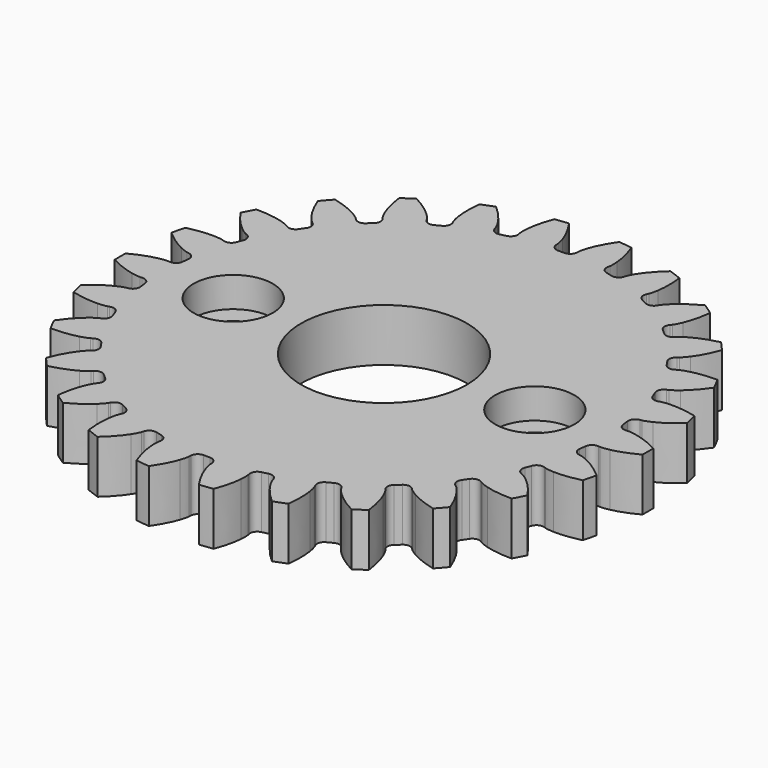
from build123d import *

# Parameters (mm, degrees)
PAD_DEPTH       = 7
SKETCH_R        = 11
POCKET_DEPTH    = 7
SKETCH001_R     = 5.25
POCKET001_DEPTH = 4
SKETCH002_R     = 2.625
POCKET002_DEPTH = 3


with BuildPart() as part:
    # InvoluteGear → Pad (new body)
    with BuildSketch(Plane.XY):
        with BuildLine():
            Line((30.239023, -2.281909), (30.502529, -2.299907))
            add(Edge.make_bspline(
                [(30.502529, -2.299907), (30.632497, -2.302355), (31.024091, -2.295099), (31.676261, -2.158069)],
                knots=[0, 0, 0, 0, 1, 1, 1, 1], degree=3))
            add(Edge.make_bspline(
                [(31.676261, -2.158069), (32.457678, -1.991856), (33.586555, -1.640863), (34.990904, -0.903734)],
                knots=[0, 0, 0, 0, 1, 1, 1, 1], degree=3))
            ThreePointArc((34.990904, -0.903734), (35.001287, 0.000476), (34.988307, 0.904653))
            add(Edge.make_bspline(
                [(34.988307, 0.904653), (33.586555, 1.640863), (32.457678, 1.991856), (31.676261, 2.158069)],
                knots=[0, 0, 0, 0, 1, 1, 1, 1], degree=3))
            add(Edge.make_bspline(
                [(31.676261, 2.158069), (31.024091, 2.295099), (30.632497, 2.302355), (30.502529, 2.299907)],
                knots=[0, 0, 0, 0, 1, 1, 1, 1], degree=3))
            Line((30.502529, 2.299907), (30.239023, 2.281909))
            ThreePointArc((30.239023, 2.281909), (29.550636, 2.493126), (29.208141, 3.126519))
            ThreePointArc((29.208141, 3.126519), (29.160823, 3.540765), (29.107631, 3.954298))
            ThreePointArc((29.107631, 3.954298), (29.288592, 4.65125), (29.906429, 5.021071))
            Line((29.906429, 5.021071), (30.166584, 5.066657))
            add(Edge.make_bspline(
                [(30.166584, 5.066657), (30.293362, 5.095384), (30.67184, 5.196144), (31.272266, 5.485266)],
                knots=[0, 0, 0, 0, 1, 1, 1, 1], degree=3))
            add(Edge.make_bspline(
                [(31.272266, 5.485266), (31.991199, 5.833654), (33.003274, 6.444606), (34.190409, 7.496398)],
                knots=[0, 0, 0, 0, 1, 1, 1, 1], degree=3))
            ThreePointArc((34.190409, 7.496398), (33.984099, 8.376819), (33.755112, 9.251615))
            add(Edge.make_bspline(
                [(33.755112, 9.251615), (32.217906, 9.630971), (31.037834, 9.701607), (30.239346, 9.675985)],
                knots=[0, 0, 0, 0, 1, 1, 1, 1], degree=3))
            add(Edge.make_bspline(
                [(30.239346, 9.675985), (29.573334, 9.652958), (29.191383, 9.566289), (29.065777, 9.532808)],
                knots=[0, 0, 0, 0, 1, 1, 1, 1], degree=3))
            Line((29.065777, 9.532808), (28.814236, 9.452272))
            ThreePointArc((28.814236, 9.452272), (28.095304, 9.49261), (27.611181, 10.025634))
            ThreePointArc((27.611181, 10.025634), (27.466102, 10.416519), (27.31549, 10.805305))
            ThreePointArc((27.31549, 10.805305), (27.324402, 11.525312), (27.835781, 12.032245))
            Line((27.835781, 12.032245), (28.077468, 12.138766))
            add(Edge.make_bspline(
                [(28.077468, 12.138766), (28.193687, 12.196997), (28.537054, 12.385405), (29.050841, 12.809817)],
                knots=[0, 0, 0, 0, 1, 1, 1, 1], degree=3))
            add(Edge.make_bspline(
                [(29.050841, 12.809817), (29.665508, 13.320134), (30.501964, 14.155538), (31.402893, 15.460867)],
                knots=[0, 0, 0, 0, 1, 1, 1, 1], degree=3))
            ThreePointArc((31.402893, 15.460867), (30.991879, 16.266331), (30.560194, 17.060907))
            add(Edge.make_bspline(
                [(30.560194, 17.060907), (28.97687, 17.061362), (27.814185, 16.847536), (27.045031, 16.631567)],
                knots=[0, 0, 0, 0, 1, 1, 1, 1], degree=3))
            add(Edge.make_bspline(
                [(27.045031, 16.631567), (26.403883, 16.449823), (26.053772, 16.274265), (25.939828, 16.211698)],
                knots=[0, 0, 0, 0, 1, 1, 1, 1], degree=3))
            Line((25.939828, 16.211698), (25.714869, 16.073305))
            ThreePointArc((25.714869, 16.073305), (25.007175, 15.940418), (24.409559, 16.342095))
            ThreePointArc((24.409559, 16.342095), (24.175151, 16.686902), (23.935873, 17.028347))
            ThreePointArc((23.935873, 17.028347), (23.772217, 17.729565), (24.147419, 18.344148))
            Line((24.147419, 18.344148), (24.356591, 18.505413))
            add(Edge.make_bspline(
                [(24.356591, 18.505413), (24.455497, 18.589766), (24.743798, 18.854872), (25.141086, 19.389909)],
                knots=[0, 0, 0, 0, 1, 1, 1, 1], degree=3))
            add(Edge.make_bspline(
                [(25.141086, 19.389909), (25.615766, 20.032496), (26.22799, 21.043802), (26.790354, 22.526807)],
                knots=[0, 0, 0, 0, 1, 1, 1, 1], degree=3))
            ThreePointArc((26.790354, 22.526807), (26.198523, 23.210503), (25.589228, 23.878682))
            add(Edge.make_bspline(
                [(25.589228, 23.878682), (24.051804, 23.500209), (22.974076, 23.014347), (22.278957, 22.620584)],
                knots=[0, 0, 0, 0, 1, 1, 1, 1], degree=3))
            add(Edge.make_bspline(
                [(22.278957, 22.620584), (21.699934, 22.290684), (21.40201, 22.03644), (21.30635, 21.948423)],
                knots=[0, 0, 0, 0, 1, 1, 1, 1], degree=3))
            Line((21.30635, 21.948423), (21.121048, 21.760215))
            ThreePointArc((21.121048, 21.760215), (20.46572, 21.461828), (19.789342, 21.708813))
            ThreePointArc((19.789342, 21.708813), (19.479228, 21.987503), (19.16519, 22.261764))
            ThreePointArc((19.16519, 22.261764), (18.838477, 22.90344), (19.055697, 23.589956))
            Line((19.055697, 23.589956), (19.220197, 23.796593))
            add(Edge.make_bspline(
                [(19.220197, 23.796593), (19.296043, 23.902165), (19.512522, 24.228562), (19.770223, 24.843129)],
                knots=[0, 0, 0, 0, 1, 1, 1, 1], degree=3))
            add(Edge.make_bspline(
                [(19.770223, 24.843129), (20.077328, 25.580642), (20.429741, 26.709076), (20.620857, 28.28357)],
                knots=[0, 0, 0, 0, 1, 1, 1, 1], degree=3))
            ThreePointArc((20.620857, 28.28357), (19.882605, 28.805765), (19.131109, 29.308713))
            add(Edge.make_bspline(
                [(19.131109, 29.308713), (17.728934, 28.573309), (16.798797, 27.843649), (16.218111, 27.294974)],
                knots=[0, 0, 0, 0, 1, 1, 1, 1], degree=3))
            add(Edge.make_bspline(
                [(16.218111, 27.294974), (15.734863, 26.836091), (15.506441, 26.517938), (15.434625, 26.409585)],
                knots=[0, 0, 0, 0, 1, 1, 1, 1], degree=3))
            Line((15.434625, 26.409585), (15.299749, 26.1825))
            ThreePointArc((15.299749, 26.1825), (14.734872, 25.735953), (14.019041, 25.813894))
            ThreePointArc((14.019041, 25.813894), (13.651243, 26.010271), (13.280696, 26.201407))
            ThreePointArc((13.280696, 26.201407), (12.809913, 26.74625), (12.856527, 27.464802))
            Line((12.856527, 27.464802), (12.966796, 27.704802))
            add(Edge.make_bspline(
                [(12.966796, 27.704802), (13.015172, 27.825456), (13.147249, 28.194176), (13.250386, 28.852557)],
                knots=[0, 0, 0, 0, 1, 1, 1, 1], degree=3))
            add(Edge.make_bspline(
                [(13.250386, 28.852557), (13.372069, 29.642134), (13.44419, 30.822116), (13.252951, 32.396595)],
                knots=[0, 0, 0, 0, 1, 1, 1, 1], degree=3))
            ThreePointArc((13.252951, 32.396595), (12.411182, 32.72694), (11.561159, 33.035429))
            add(Edge.make_bspline(
                [(11.561159, 33.035429), (10.375723, 31.985832), (9.647233, 31.054778), (9.214727, 30.38308)],
                knots=[0, 0, 0, 0, 1, 1, 1, 1], degree=3))
            add(Edge.make_bspline(
                [(9.214727, 30.38308), (8.85534, 29.821882), (8.709694, 29.458309), (8.665896, 29.335918)],
                knots=[0, 0, 0, 0, 1, 1, 1, 1], degree=3))
            Line((8.665896, 29.335918), (8.589284, 29.083154))
            ThreePointArc((8.589284, 29.083154), (8.147687, 28.514399), (7.434004, 28.418765))
            ThreePointArc((7.434004, 28.418765), (7.029898, 28.521416), (6.624375, 28.618321))
            ThreePointArc((6.624375, 28.618321), (6.036884, 29.034665), (5.910182, 29.743493))
            Line((5.910182, 29.743493), (5.959811, 30.002908))
            add(Edge.make_bspline(
                [(5.959811, 30.002908), (5.977908, 30.131634), (6.017906, 30.521247), (5.960485, 31.185179)],
                knots=[0, 0, 0, 0, 1, 1, 1, 1], degree=3))
            add(Edge.make_bspline(
                [(5.960485, 31.185179), (5.889674, 31.980933), (5.677311, 33.143887), (5.114832, 34.626848)],
                knots=[0, 0, 0, 0, 1, 1, 1, 1], degree=3))
            ThreePointArc((5.114832, 34.626848), (4.218466, 34.746145), (3.319317, 34.842246))
            add(Edge.make_bspline(
                [(3.319317, 34.842246), (2.419513, 33.539455), (1.935007, 32.461117), (1.675817, 31.705432)],
                knots=[0, 0, 0, 0, 1, 1, 1, 1], degree=3))
            add(Edge.make_bspline(
                [(1.675817, 31.705432), (1.461176, 31.074534), (1.406771, 30.68667), (1.393536, 30.557354)],
                knots=[0, 0, 0, 0, 1, 1, 1, 1], degree=3))
            Line((1.393536, 30.557354), (1.37964, 30.2936))
            ThreePointArc((1.37964, 30.2936), (1.086987, 29.635692), (0.416929, 29.372041))
            ThreePointArc((0.416929, 29.372041), (0, 29.375), (-0.416929, 29.372041))
            ThreePointArc((-0.416929, 29.372041), (-1.086987, 29.635692), (-1.37964, 30.2936))
            Line((-1.37964, 30.2936), (-1.393536, 30.557354))
            add(Edge.make_bspline(
                [(-1.393536, 30.557354), (-1.406771, 30.68667), (-1.461176, 31.074534), (-1.675817, 31.705432)],
                knots=[0, 0, 0, 0, 1, 1, 1, 1], degree=3))
            add(Edge.make_bspline(
                [(-1.675817, 31.705432), (-1.935007, 32.461117), (-2.419513, 33.539455), (-3.320543, 34.844714)],
                knots=[0, 0, 0, 0, 1, 1, 1, 1], degree=3))
            ThreePointArc((-3.320543, 34.844714), (-4.219412, 34.74603), (-5.115432, 34.624159))
            add(Edge.make_bspline(
                [(-5.115432, 34.624159), (-5.677311, 33.143887), (-5.889674, 31.980933), (-5.960485, 31.185179)],
                knots=[0, 0, 0, 0, 1, 1, 1, 1], degree=3))
            add(Edge.make_bspline(
                [(-5.960485, 31.185179), (-6.017906, 30.521247), (-5.977908, 30.131634), (-5.959811, 30.002908)],
                knots=[0, 0, 0, 0, 1, 1, 1, 1], degree=3))
            Line((-5.959811, 30.002908), (-5.910182, 29.743493))
            ThreePointArc((-5.910182, 29.743493), (-6.036884, 29.034665), (-6.624375, 28.618321))
            ThreePointArc((-6.624375, 28.618321), (-7.029898, 28.521416), (-7.434004, 28.418765))
            ThreePointArc((-7.434004, 28.418765), (-8.147687, 28.514399), (-8.589284, 29.083154))
            Line((-8.589284, 29.083154), (-8.665896, 29.335918))
            add(Edge.make_bspline(
                [(-8.665896, 29.335918), (-8.709694, 29.458309), (-8.85534, 29.821882), (-9.214727, 30.38308)],
                knots=[0, 0, 0, 0, 1, 1, 1, 1], degree=3))
            add(Edge.make_bspline(
                [(-9.214727, 30.38308), (-9.647233, 31.054778), (-10.375723, 31.985832), (-11.56294, 33.037532)],
                knots=[0, 0, 0, 0, 1, 1, 1, 1], degree=3))
            ThreePointArc((-11.56294, 33.037532), (-12.412073, 32.726603), (-13.25289, 32.393841))
            add(Edge.make_bspline(
                [(-13.25289, 32.393841), (-13.44419, 30.822116), (-13.372069, 29.642134), (-13.250386, 28.852557)],
                knots=[0, 0, 0, 0, 1, 1, 1, 1], degree=3))
            add(Edge.make_bspline(
                [(-13.250386, 28.852557), (-13.147249, 28.194176), (-13.015172, 27.825456), (-12.966796, 27.704802)],
                knots=[0, 0, 0, 0, 1, 1, 1, 1], degree=3))
            Line((-12.966796, 27.704802), (-12.856527, 27.464802))
            ThreePointArc((-12.856527, 27.464802), (-12.809913, 26.74625), (-13.280696, 26.201407))
            ThreePointArc((-13.280696, 26.201407), (-13.651243, 26.010271), (-14.019041, 25.813894))
            ThreePointArc((-14.019041, 25.813894), (-14.734872, 25.735953), (-15.299749, 26.1825))
            Line((-15.299749, 26.1825), (-15.434625, 26.409585))
            add(Edge.make_bspline(
                [(-15.434625, 26.409585), (-15.506441, 26.517938), (-15.734863, 26.836091), (-16.218111, 27.294974)],
                knots=[0, 0, 0, 0, 1, 1, 1, 1], degree=3))
            add(Edge.make_bspline(
                [(-16.218111, 27.294974), (-16.798797, 27.843649), (-17.728934, 28.573309), (-19.13334, 29.310329)],
                knots=[0, 0, 0, 0, 1, 1, 1, 1], degree=3))
            ThreePointArc((-19.13334, 29.310329), (-19.883389, 28.805224), (-20.620138, 28.28091))
            add(Edge.make_bspline(
                [(-20.620138, 28.28091), (-20.429741, 26.709076), (-20.077328, 25.580642), (-19.770223, 24.843129)],
                knots=[0, 0, 0, 0, 1, 1, 1, 1], degree=3))
            add(Edge.make_bspline(
                [(-19.770223, 24.843129), (-19.512522, 24.228562), (-19.296043, 23.902165), (-19.220197, 23.796593)],
                knots=[0, 0, 0, 0, 1, 1, 1, 1], degree=3))
            Line((-19.220197, 23.796593), (-19.055697, 23.589956))
            ThreePointArc((-19.055697, 23.589956), (-18.838477, 22.90344), (-19.16519, 22.261764))
            ThreePointArc((-19.16519, 22.261764), (-19.479228, 21.987503), (-19.789342, 21.708813))
            ThreePointArc((-19.789342, 21.708813), (-20.46572, 21.461828), (-21.121048, 21.760215))
            Line((-21.121048, 21.760215), (-21.30635, 21.948423))
            add(Edge.make_bspline(
                [(-21.30635, 21.948423), (-21.40201, 22.03644), (-21.699934, 22.290684), (-22.278957, 22.620584)],
                knots=[0, 0, 0, 0, 1, 1, 1, 1], degree=3))
            add(Edge.make_bspline(
                [(-22.278957, 22.620584), (-22.974076, 23.014347), (-24.051804, 23.500209), (-25.591781, 23.879716)],
                knots=[0, 0, 0, 0, 1, 1, 1, 1], degree=3))
            ThreePointArc((-25.591781, 23.879716), (-26.199155, 23.20979), (-26.78902, 22.524396))
            add(Edge.make_bspline(
                [(-26.78902, 22.524396), (-26.22799, 21.043802), (-25.615766, 20.032496), (-25.141086, 19.389909)],
                knots=[0, 0, 0, 0, 1, 1, 1, 1], degree=3))
            add(Edge.make_bspline(
                [(-25.141086, 19.389909), (-24.743798, 18.854872), (-24.455497, 18.589766), (-24.356591, 18.505413)],
                knots=[0, 0, 0, 0, 1, 1, 1, 1], degree=3))
            Line((-24.356591, 18.505413), (-24.147419, 18.344148))
            ThreePointArc((-24.147419, 18.344148), (-23.772217, 17.729565), (-23.935873, 17.028347))
            ThreePointArc((-23.935873, 17.028347), (-24.175151, 16.686902), (-24.409559, 16.342095))
            ThreePointArc((-24.409559, 16.342095), (-25.007175, 15.940418), (-25.714869, 16.073305))
            Line((-25.714869, 16.073305), (-25.939828, 16.211698))
            add(Edge.make_bspline(
                [(-25.939828, 16.211698), (-26.053772, 16.274265), (-26.403883, 16.449823), (-27.045031, 16.631567)],
                knots=[0, 0, 0, 0, 1, 1, 1, 1], degree=3))
            add(Edge.make_bspline(
                [(-27.045031, 16.631567), (-27.814185, 16.847536), (-28.97687, 17.061362), (-30.56292, 17.0613)],
                knots=[0, 0, 0, 0, 1, 1, 1, 1], degree=3))
            ThreePointArc((-30.56292, 17.0613), (-30.992322, 16.265487), (-31.40102, 15.458846))
            add(Edge.make_bspline(
                [(-31.40102, 15.458846), (-30.501964, 14.155538), (-29.665508, 13.320134), (-29.050841, 12.809817)],
                knots=[0, 0, 0, 0, 1, 1, 1, 1], degree=3))
            add(Edge.make_bspline(
                [(-29.050841, 12.809817), (-28.537054, 12.385405), (-28.193687, 12.196997), (-28.077468, 12.138766)],
                knots=[0, 0, 0, 0, 1, 1, 1, 1], degree=3))
            Line((-28.077468, 12.138766), (-27.835781, 12.032245))
            ThreePointArc((-27.835781, 12.032245), (-27.324402, 11.525312), (-27.31549, 10.805305))
            ThreePointArc((-27.31549, 10.805305), (-27.466102, 10.416519), (-27.611181, 10.025634))
            ThreePointArc((-27.611181, 10.025634), (-28.095304, 9.49261), (-28.814236, 9.452272))
            Line((-28.814236, 9.452272), (-29.065777, 9.532808))
            add(Edge.make_bspline(
                [(-29.065777, 9.532808), (-29.191383, 9.566289), (-29.573334, 9.652958), (-30.239346, 9.675985)],
                knots=[0, 0, 0, 0, 1, 1, 1, 1], degree=3))
            add(Edge.make_bspline(
                [(-30.239346, 9.675985), (-31.037834, 9.701607), (-32.217906, 9.630971), (-33.757854, 9.251344)],
                knots=[0, 0, 0, 0, 1, 1, 1, 1], degree=3))
            ThreePointArc((-33.757854, 9.251344), (-33.984327, 8.375894), (-34.188108, 7.494884))
            add(Edge.make_bspline(
                [(-34.188108, 7.494884), (-33.003274, 6.444606), (-31.991199, 5.833654), (-31.272266, 5.485266)],
                knots=[0, 0, 0, 0, 1, 1, 1, 1], degree=3))
            add(Edge.make_bspline(
                [(-31.272266, 5.485266), (-30.67184, 5.196144), (-30.293362, 5.095384), (-30.166584, 5.066657)],
                knots=[0, 0, 0, 0, 1, 1, 1, 1], degree=3))
            Line((-30.166584, 5.066657), (-29.906429, 5.021071))
            ThreePointArc((-29.906429, 5.021071), (-29.288592, 4.65125), (-29.107631, 3.954298))
            ThreePointArc((-29.107631, 3.954298), (-29.160823, 3.540765), (-29.208141, 3.126519))
            ThreePointArc((-29.208141, 3.126519), (-29.550636, 2.493126), (-30.239023, 2.281909))
            Line((-30.239023, 2.281909), (-30.502529, 2.299907))
            add(Edge.make_bspline(
                [(-30.502529, 2.299907), (-30.632497, 2.302355), (-31.024091, 2.295099), (-31.676261, 2.158069)],
                knots=[0, 0, 0, 0, 1, 1, 1, 1], degree=3))
            add(Edge.make_bspline(
                [(-31.676261, 2.158069), (-32.457678, 1.991856), (-33.586555, 1.640863), (-34.990904, 0.903734)],
                knots=[0, 0, 0, 0, 1, 1, 1, 1], degree=3))
            ThreePointArc((-34.990904, 0.903734), (-35.001287, -0.000476), (-34.988307, -0.904653))
            add(Edge.make_bspline(
                [(-34.988307, -0.904653), (-33.586555, -1.640863), (-32.457678, -1.991856), (-31.676261, -2.158069)],
                knots=[0, 0, 0, 0, 1, 1, 1, 1], degree=3))
            add(Edge.make_bspline(
                [(-31.676261, -2.158069), (-31.024091, -2.295099), (-30.632497, -2.302355), (-30.502529, -2.299907)],
                knots=[0, 0, 0, 0, 1, 1, 1, 1], degree=3))
            Line((-30.502529, -2.299907), (-30.239023, -2.281909))
            ThreePointArc((-30.239023, -2.281909), (-29.550636, -2.493126), (-29.208141, -3.126519))
            ThreePointArc((-29.208141, -3.126519), (-29.160823, -3.540765), (-29.107631, -3.954298))
            ThreePointArc((-29.107631, -3.954298), (-29.288592, -4.65125), (-29.906429, -5.021071))
            Line((-29.906429, -5.021071), (-30.166584, -5.066657))
            add(Edge.make_bspline(
                [(-30.166584, -5.066657), (-30.293362, -5.095384), (-30.67184, -5.196144), (-31.272266, -5.485266)],
                knots=[0, 0, 0, 0, 1, 1, 1, 1], degree=3))
            add(Edge.make_bspline(
                [(-31.272266, -5.485266), (-31.991199, -5.833654), (-33.003274, -6.444606), (-34.190409, -7.496398)],
                knots=[0, 0, 0, 0, 1, 1, 1, 1], degree=3))
            ThreePointArc((-34.190409, -7.496398), (-33.984099, -8.376819), (-33.755112, -9.251615))
            add(Edge.make_bspline(
                [(-33.755112, -9.251615), (-32.217906, -9.630971), (-31.037834, -9.701607), (-30.239346, -9.675985)],
                knots=[0, 0, 0, 0, 1, 1, 1, 1], degree=3))
            add(Edge.make_bspline(
                [(-30.239346, -9.675985), (-29.573334, -9.652958), (-29.191383, -9.566289), (-29.065777, -9.532808)],
                knots=[0, 0, 0, 0, 1, 1, 1, 1], degree=3))
            Line((-29.065777, -9.532808), (-28.814236, -9.452272))
            ThreePointArc((-28.814236, -9.452272), (-28.095304, -9.49261), (-27.611181, -10.025634))
            ThreePointArc((-27.611181, -10.025634), (-27.466102, -10.416519), (-27.31549, -10.805305))
            ThreePointArc((-27.31549, -10.805305), (-27.324402, -11.525312), (-27.835781, -12.032245))
            Line((-27.835781, -12.032245), (-28.077468, -12.138766))
            add(Edge.make_bspline(
                [(-28.077468, -12.138766), (-28.193687, -12.196997), (-28.537054, -12.385405), (-29.050841, -12.809817)],
                knots=[0, 0, 0, 0, 1, 1, 1, 1], degree=3))
            add(Edge.make_bspline(
                [(-29.050841, -12.809817), (-29.665508, -13.320134), (-30.501964, -14.155538), (-31.402893, -15.460867)],
                knots=[0, 0, 0, 0, 1, 1, 1, 1], degree=3))
            ThreePointArc((-31.402893, -15.460867), (-30.991879, -16.266331), (-30.560194, -17.060907))
            add(Edge.make_bspline(
                [(-30.560194, -17.060907), (-28.97687, -17.061362), (-27.814185, -16.847536), (-27.045031, -16.631567)],
                knots=[0, 0, 0, 0, 1, 1, 1, 1], degree=3))
            add(Edge.make_bspline(
                [(-27.045031, -16.631567), (-26.403883, -16.449823), (-26.053772, -16.274265), (-25.939828, -16.211698)],
                knots=[0, 0, 0, 0, 1, 1, 1, 1], degree=3))
            Line((-25.939828, -16.211698), (-25.714869, -16.073305))
            ThreePointArc((-25.714869, -16.073305), (-25.007175, -15.940418), (-24.409559, -16.342095))
            ThreePointArc((-24.409559, -16.342095), (-24.175151, -16.686902), (-23.935873, -17.028347))
            ThreePointArc((-23.935873, -17.028347), (-23.772217, -17.729565), (-24.147419, -18.344148))
            Line((-24.147419, -18.344148), (-24.356591, -18.505413))
            add(Edge.make_bspline(
                [(-24.356591, -18.505413), (-24.455497, -18.589766), (-24.743798, -18.854872), (-25.141086, -19.389909)],
                knots=[0, 0, 0, 0, 1, 1, 1, 1], degree=3))
            add(Edge.make_bspline(
                [(-25.141086, -19.389909), (-25.615766, -20.032496), (-26.22799, -21.043802), (-26.790354, -22.526807)],
                knots=[0, 0, 0, 0, 1, 1, 1, 1], degree=3))
            ThreePointArc((-26.790354, -22.526807), (-26.198523, -23.210503), (-25.589228, -23.878682))
            add(Edge.make_bspline(
                [(-25.589228, -23.878682), (-24.051804, -23.500209), (-22.974076, -23.014347), (-22.278957, -22.620584)],
                knots=[0, 0, 0, 0, 1, 1, 1, 1], degree=3))
            add(Edge.make_bspline(
                [(-22.278957, -22.620584), (-21.699934, -22.290684), (-21.40201, -22.03644), (-21.30635, -21.948423)],
                knots=[0, 0, 0, 0, 1, 1, 1, 1], degree=3))
            Line((-21.30635, -21.948423), (-21.121048, -21.760215))
            ThreePointArc((-21.121048, -21.760215), (-20.46572, -21.461828), (-19.789342, -21.708813))
            ThreePointArc((-19.789342, -21.708813), (-19.479228, -21.987503), (-19.16519, -22.261764))
            ThreePointArc((-19.16519, -22.261764), (-18.838477, -22.90344), (-19.055697, -23.589956))
            Line((-19.055697, -23.589956), (-19.220197, -23.796593))
            add(Edge.make_bspline(
                [(-19.220197, -23.796593), (-19.296043, -23.902165), (-19.512522, -24.228562), (-19.770223, -24.843129)],
                knots=[0, 0, 0, 0, 1, 1, 1, 1], degree=3))
            add(Edge.make_bspline(
                [(-19.770223, -24.843129), (-20.077328, -25.580642), (-20.429741, -26.709076), (-20.620857, -28.28357)],
                knots=[0, 0, 0, 0, 1, 1, 1, 1], degree=3))
            ThreePointArc((-20.620857, -28.28357), (-19.882605, -28.805765), (-19.131109, -29.308713))
            add(Edge.make_bspline(
                [(-19.131109, -29.308713), (-17.728934, -28.573309), (-16.798797, -27.843649), (-16.218111, -27.294974)],
                knots=[0, 0, 0, 0, 1, 1, 1, 1], degree=3))
            add(Edge.make_bspline(
                [(-16.218111, -27.294974), (-15.734863, -26.836091), (-15.506441, -26.517938), (-15.434625, -26.409585)],
                knots=[0, 0, 0, 0, 1, 1, 1, 1], degree=3))
            Line((-15.434625, -26.409585), (-15.299749, -26.1825))
            ThreePointArc((-15.299749, -26.1825), (-14.734872, -25.735953), (-14.019041, -25.813894))
            ThreePointArc((-14.019041, -25.813894), (-13.651243, -26.010271), (-13.280696, -26.201407))
            ThreePointArc((-13.280696, -26.201407), (-12.809913, -26.74625), (-12.856527, -27.464802))
            Line((-12.856527, -27.464802), (-12.966796, -27.704802))
            add(Edge.make_bspline(
                [(-12.966796, -27.704802), (-13.015172, -27.825456), (-13.147249, -28.194176), (-13.250386, -28.852557)],
                knots=[0, 0, 0, 0, 1, 1, 1, 1], degree=3))
            add(Edge.make_bspline(
                [(-13.250386, -28.852557), (-13.372069, -29.642134), (-13.44419, -30.822116), (-13.252951, -32.396595)],
                knots=[0, 0, 0, 0, 1, 1, 1, 1], degree=3))
            ThreePointArc((-13.252951, -32.396595), (-12.411182, -32.72694), (-11.561159, -33.035429))
            add(Edge.make_bspline(
                [(-11.561159, -33.035429), (-10.375723, -31.985832), (-9.647233, -31.054778), (-9.214727, -30.38308)],
                knots=[0, 0, 0, 0, 1, 1, 1, 1], degree=3))
            add(Edge.make_bspline(
                [(-9.214727, -30.38308), (-8.85534, -29.821882), (-8.709694, -29.458309), (-8.665896, -29.335918)],
                knots=[0, 0, 0, 0, 1, 1, 1, 1], degree=3))
            Line((-8.665896, -29.335918), (-8.589284, -29.083154))
            ThreePointArc((-8.589284, -29.083154), (-8.147687, -28.514399), (-7.434004, -28.418765))
            ThreePointArc((-7.434004, -28.418765), (-7.029898, -28.521416), (-6.624375, -28.618321))
            ThreePointArc((-6.624375, -28.618321), (-6.036884, -29.034665), (-5.910182, -29.743493))
            Line((-5.910182, -29.743493), (-5.959811, -30.002908))
            add(Edge.make_bspline(
                [(-5.959811, -30.002908), (-5.977908, -30.131634), (-6.017906, -30.521247), (-5.960485, -31.185179)],
                knots=[0, 0, 0, 0, 1, 1, 1, 1], degree=3))
            add(Edge.make_bspline(
                [(-5.960485, -31.185179), (-5.889674, -31.980933), (-5.677311, -33.143887), (-5.114832, -34.626848)],
                knots=[0, 0, 0, 0, 1, 1, 1, 1], degree=3))
            ThreePointArc((-5.114832, -34.626848), (-4.218466, -34.746145), (-3.319317, -34.842246))
            add(Edge.make_bspline(
                [(-3.319317, -34.842246), (-2.419513, -33.539455), (-1.935007, -32.461117), (-1.675817, -31.705432)],
                knots=[0, 0, 0, 0, 1, 1, 1, 1], degree=3))
            add(Edge.make_bspline(
                [(-1.675817, -31.705432), (-1.461176, -31.074534), (-1.406771, -30.68667), (-1.393536, -30.557354)],
                knots=[0, 0, 0, 0, 1, 1, 1, 1], degree=3))
            Line((-1.393536, -30.557354), (-1.37964, -30.2936))
            ThreePointArc((-1.37964, -30.2936), (-1.086987, -29.635692), (-0.416929, -29.372041))
            ThreePointArc((-0.416929, -29.372041), (0, -29.375), (0.416929, -29.372041))
            ThreePointArc((0.416929, -29.372041), (1.086987, -29.635692), (1.37964, -30.2936))
            Line((1.37964, -30.2936), (1.393536, -30.557354))
            add(Edge.make_bspline(
                [(1.393536, -30.557354), (1.406771, -30.68667), (1.461176, -31.074534), (1.675817, -31.705432)],
                knots=[0, 0, 0, 0, 1, 1, 1, 1], degree=3))
            add(Edge.make_bspline(
                [(1.675817, -31.705432), (1.935007, -32.461117), (2.419513, -33.539455), (3.320543, -34.844714)],
                knots=[0, 0, 0, 0, 1, 1, 1, 1], degree=3))
            ThreePointArc((3.320543, -34.844714), (4.219412, -34.74603), (5.115432, -34.624159))
            add(Edge.make_bspline(
                [(5.115432, -34.624159), (5.677311, -33.143887), (5.889674, -31.980933), (5.960485, -31.185179)],
                knots=[0, 0, 0, 0, 1, 1, 1, 1], degree=3))
            add(Edge.make_bspline(
                [(5.960485, -31.185179), (6.017906, -30.521247), (5.977908, -30.131634), (5.959811, -30.002908)],
                knots=[0, 0, 0, 0, 1, 1, 1, 1], degree=3))
            Line((5.959811, -30.002908), (5.910182, -29.743493))
            ThreePointArc((5.910182, -29.743493), (6.036884, -29.034665), (6.624375, -28.618321))
            ThreePointArc((6.624375, -28.618321), (7.029898, -28.521416), (7.434004, -28.418765))
            ThreePointArc((7.434004, -28.418765), (8.147687, -28.514399), (8.589284, -29.083154))
            Line((8.589284, -29.083154), (8.665896, -29.335918))
            add(Edge.make_bspline(
                [(8.665896, -29.335918), (8.709694, -29.458309), (8.85534, -29.821882), (9.214727, -30.38308)],
                knots=[0, 0, 0, 0, 1, 1, 1, 1], degree=3))
            add(Edge.make_bspline(
                [(9.214727, -30.38308), (9.647233, -31.054778), (10.375723, -31.985832), (11.56294, -33.037532)],
                knots=[0, 0, 0, 0, 1, 1, 1, 1], degree=3))
            ThreePointArc((11.56294, -33.037532), (12.412073, -32.726603), (13.25289, -32.393841))
            add(Edge.make_bspline(
                [(13.25289, -32.393841), (13.44419, -30.822116), (13.372069, -29.642134), (13.250386, -28.852557)],
                knots=[0, 0, 0, 0, 1, 1, 1, 1], degree=3))
            add(Edge.make_bspline(
                [(13.250386, -28.852557), (13.147249, -28.194176), (13.015172, -27.825456), (12.966796, -27.704802)],
                knots=[0, 0, 0, 0, 1, 1, 1, 1], degree=3))
            Line((12.966796, -27.704802), (12.856527, -27.464802))
            ThreePointArc((12.856527, -27.464802), (12.809913, -26.74625), (13.280696, -26.201407))
            ThreePointArc((13.280696, -26.201407), (13.651243, -26.010271), (14.019041, -25.813894))
            ThreePointArc((14.019041, -25.813894), (14.734872, -25.735953), (15.299749, -26.1825))
            Line((15.299749, -26.1825), (15.434625, -26.409585))
            add(Edge.make_bspline(
                [(15.434625, -26.409585), (15.506441, -26.517938), (15.734863, -26.836091), (16.218111, -27.294974)],
                knots=[0, 0, 0, 0, 1, 1, 1, 1], degree=3))
            add(Edge.make_bspline(
                [(16.218111, -27.294974), (16.798797, -27.843649), (17.728934, -28.573309), (19.13334, -29.310329)],
                knots=[0, 0, 0, 0, 1, 1, 1, 1], degree=3))
            ThreePointArc((19.13334, -29.310329), (19.883389, -28.805224), (20.620138, -28.28091))
            add(Edge.make_bspline(
                [(20.620138, -28.28091), (20.429741, -26.709076), (20.077328, -25.580642), (19.770223, -24.843129)],
                knots=[0, 0, 0, 0, 1, 1, 1, 1], degree=3))
            add(Edge.make_bspline(
                [(19.770223, -24.843129), (19.512522, -24.228562), (19.296043, -23.902165), (19.220197, -23.796593)],
                knots=[0, 0, 0, 0, 1, 1, 1, 1], degree=3))
            Line((19.220197, -23.796593), (19.055697, -23.589956))
            ThreePointArc((19.055697, -23.589956), (18.838477, -22.90344), (19.16519, -22.261764))
            ThreePointArc((19.16519, -22.261764), (19.479228, -21.987503), (19.789342, -21.708813))
            ThreePointArc((19.789342, -21.708813), (20.46572, -21.461828), (21.121048, -21.760215))
            Line((21.121048, -21.760215), (21.30635, -21.948423))
            add(Edge.make_bspline(
                [(21.30635, -21.948423), (21.40201, -22.03644), (21.699934, -22.290684), (22.278957, -22.620584)],
                knots=[0, 0, 0, 0, 1, 1, 1, 1], degree=3))
            add(Edge.make_bspline(
                [(22.278957, -22.620584), (22.974076, -23.014347), (24.051804, -23.500209), (25.591781, -23.879716)],
                knots=[0, 0, 0, 0, 1, 1, 1, 1], degree=3))
            ThreePointArc((25.591781, -23.879716), (26.199155, -23.20979), (26.78902, -22.524396))
            add(Edge.make_bspline(
                [(26.78902, -22.524396), (26.22799, -21.043802), (25.615766, -20.032496), (25.141086, -19.389909)],
                knots=[0, 0, 0, 0, 1, 1, 1, 1], degree=3))
            add(Edge.make_bspline(
                [(25.141086, -19.389909), (24.743798, -18.854872), (24.455497, -18.589766), (24.356591, -18.505413)],
                knots=[0, 0, 0, 0, 1, 1, 1, 1], degree=3))
            Line((24.356591, -18.505413), (24.147419, -18.344148))
            ThreePointArc((24.147419, -18.344148), (23.772217, -17.729565), (23.935873, -17.028347))
            ThreePointArc((23.935873, -17.028347), (24.175151, -16.686902), (24.409559, -16.342095))
            ThreePointArc((24.409559, -16.342095), (25.007175, -15.940418), (25.714869, -16.073305))
            Line((25.714869, -16.073305), (25.939828, -16.211698))
            add(Edge.make_bspline(
                [(25.939828, -16.211698), (26.053772, -16.274265), (26.403883, -16.449823), (27.045031, -16.631567)],
                knots=[0, 0, 0, 0, 1, 1, 1, 1], degree=3))
            add(Edge.make_bspline(
                [(27.045031, -16.631567), (27.814185, -16.847536), (28.97687, -17.061362), (30.56292, -17.0613)],
                knots=[0, 0, 0, 0, 1, 1, 1, 1], degree=3))
            ThreePointArc((30.56292, -17.0613), (30.992322, -16.265487), (31.40102, -15.458846))
            add(Edge.make_bspline(
                [(31.40102, -15.458846), (30.501964, -14.155538), (29.665508, -13.320134), (29.050841, -12.809817)],
                knots=[0, 0, 0, 0, 1, 1, 1, 1], degree=3))
            add(Edge.make_bspline(
                [(29.050841, -12.809817), (28.537054, -12.385405), (28.193687, -12.196997), (28.077468, -12.138766)],
                knots=[0, 0, 0, 0, 1, 1, 1, 1], degree=3))
            Line((28.077468, -12.138766), (27.835781, -12.032245))
            ThreePointArc((27.835781, -12.032245), (27.324402, -11.525312), (27.31549, -10.805305))
            ThreePointArc((27.31549, -10.805305), (27.466102, -10.416519), (27.611181, -10.025634))
            ThreePointArc((27.611181, -10.025634), (28.095304, -9.49261), (28.814236, -9.452272))
            Line((28.814236, -9.452272), (29.065777, -9.532808))
            add(Edge.make_bspline(
                [(29.065777, -9.532808), (29.191383, -9.566289), (29.573334, -9.652958), (30.239346, -9.675985)],
                knots=[0, 0, 0, 0, 1, 1, 1, 1], degree=3))
            add(Edge.make_bspline(
                [(30.239346, -9.675985), (31.037834, -9.701607), (32.217906, -9.630971), (33.757854, -9.251344)],
                knots=[0, 0, 0, 0, 1, 1, 1, 1], degree=3))
            ThreePointArc((33.757854, -9.251344), (33.984327, -8.375894), (34.188108, -7.494884))
            add(Edge.make_bspline(
                [(34.188108, -7.494884), (33.003274, -6.444606), (31.991199, -5.833654), (31.272266, -5.485266)],
                knots=[0, 0, 0, 0, 1, 1, 1, 1], degree=3))
            add(Edge.make_bspline(
                [(31.272266, -5.485266), (30.67184, -5.196144), (30.293362, -5.095384), (30.166584, -5.066657)],
                knots=[0, 0, 0, 0, 1, 1, 1, 1], degree=3))
            Line((30.166584, -5.066657), (29.906429, -5.021071))
            ThreePointArc((29.906429, -5.021071), (29.288592, -4.65125), (29.107631, -3.954298))
            ThreePointArc((29.107631, -3.954298), (29.160823, -3.540765), (29.208141, -3.126519))
            ThreePointArc((29.208141, -3.126519), (29.550636, -2.493126), (30.239023, -2.281909))
        make_face()
    extrude(amount=PAD_DEPTH)

    # Sketch (on Face262 of Pad) → Pocket (cut)
    with BuildSketch(Plane.XY.offset(7)):
        Circle(SKETCH_R)
    extrude(amount=-POCKET_DEPTH, mode=Mode.SUBTRACT)

    # Sketch001 (on Face5 of Pocket) → Pocket001 (cut)
    with BuildSketch(Plane.XY.offset(7)):
        with Locations((-20, 0)):
            Circle(SKETCH001_R)
        with Locations((20, 0)):
            Circle(SKETCH001_R)
    extrude(amount=-POCKET001_DEPTH, mode=Mode.SUBTRACT)

    # Sketch002 (on Face4 of Pocket001) → Pocket002 (cut)
    with BuildSketch(Plane(origin=(0, 0, 0), x_dir=(1, 0, 0), z_dir=(0, 0, -1))):
        with Locations((-20, 0)):
            Circle(SKETCH002_R)
        with Locations((20, 0)):
            Circle(SKETCH002_R)
    extrude(amount=-POCKET002_DEPTH, mode=Mode.SUBTRACT)


solid = part.part
